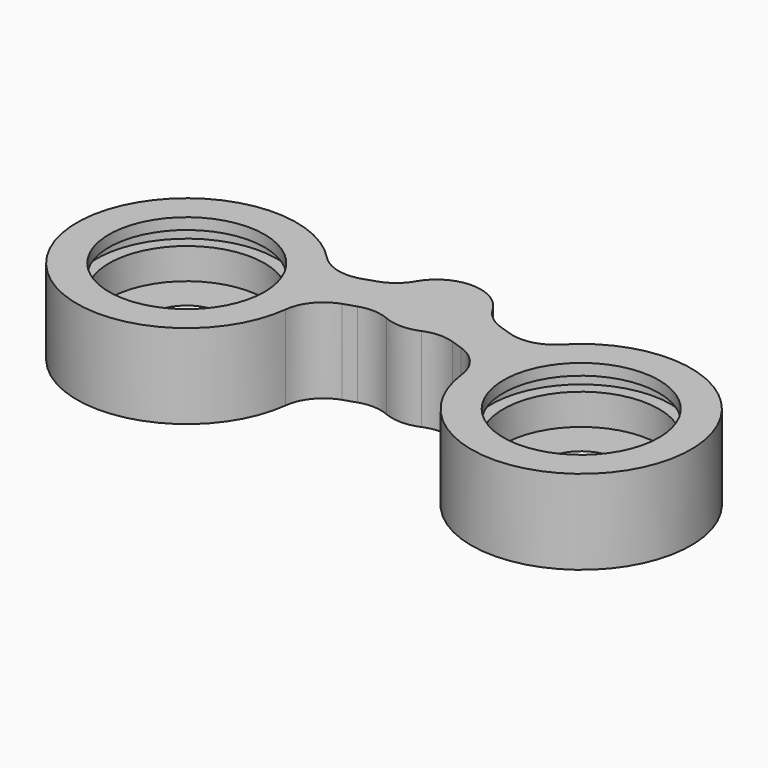
from build123d import *

# Parameters (mm, degrees)
PAD_DEPTH       = 19.05
SKETCH001_R     = 17.526
POCKET_DEPTH    = 12.7
SKETCH002_R     = 6.985
POCKET001_DEPTH = 6.351
CHAMFER_SIZE    = 1.27
SKETCH003_R     = 20.32
POCKET002_DEPTH = 3.175


with BuildPart() as part:
    # Sketch → Pad (new body)
    with BuildSketch(Plane.XY):
        with BuildLine():
            ThreePointArc((-26.517355, 2.297173), (-67.949508, -22.598065), (-19.859908, -17.720926))
            ThreePointArc((-13.408051, -9.812702), (-17.782581, -12.829737), (-19.859908, -17.720926))
            Line((-10.685782, -8.907353), (-13.408051, -9.812702))
            ThreePointArc((-3.932394, -9.188814), (-7.283282, -8.428887), (-10.685782, -8.907353))
            ThreePointArc((-3.932394, -9.188814), (0, -9.9949), (3.932394, -9.188814))
            ThreePointArc((10.685782, -8.907353), (7.283282, -8.428887), (3.932394, -9.188814))
            Line((10.685782, -8.907353), (13.408051, -9.812702))
            ThreePointArc((19.859908, -17.720926), (17.782581, -12.829737), (13.408051, -9.812702))
            ThreePointArc((19.859908, -17.720926), (67.949508, -22.598065), (26.517355, 2.297173))
            ThreePointArc((16.614313, -0.171878), (21.924443, -0.375685), (26.517355, 2.297173))
            Line((13.892044, 0.73347), (16.614313, -0.171878))
            ThreePointArc((8.652348, 5.003488), (10.880692, 2.388068), (13.892044, 0.73347))
            ThreePointArc((8.652348, 5.003488), (0, 9.9949), (-8.652348, 5.003488))
            ThreePointArc((-13.892044, 0.73347), (-10.880692, 2.388068), (-8.652348, 5.003488))
            Line((-13.892044, 0.73347), (-16.614313, -0.171878))
            ThreePointArc((-26.517355, 2.297173), (-21.924443, -0.375685), (-16.614313, -0.171878))
        make_face()
    extrude(amount=PAD_DEPTH)

    # Sketch001 (on Face18 of Pad) → Pocket (cut)
    with BuildSketch(Plane.XY.offset(19.05)):
        with Locations((-44.45, -14.7828)):
            Circle(SKETCH001_R)
        with Locations((44.45, -14.7828)):
            Circle(SKETCH001_R)
    extrude(amount=-POCKET_DEPTH, mode=Mode.SUBTRACT)

    # Sketch002 (on Face21 of Pocket) → Pocket001 (cut, through all)
    with BuildSketch(Plane.XY.offset(6.35)):
        with Locations((-44.45, -14.7828)):
            Circle(SKETCH002_R)
        with Locations((44.45, -14.7828)):
            Circle(SKETCH002_R)
    extrude(amount=-POCKET001_DEPTH, mode=Mode.SUBTRACT)

    # Chamfer
    chamfer_edges = [part.edges().sort_by_distance(p)[0] for p in [
        (-51.435, -14.7828, 6.35),
        (37.465, -14.7828, 6.35),
    ]]
    chamfer(chamfer_edges, length=CHAMFER_SIZE)

    # Sketch003 (on DatumPlane) → Pocket002 (cut)
    with BuildSketch(Plane.XY.offset(13.335)):
        with Locations((-44.45, -14.7828)):
            Circle(SKETCH003_R)
        with Locations((44.45, -14.7828)):
            Circle(SKETCH003_R)
    extrude(amount=POCKET002_DEPTH, mode=Mode.SUBTRACT)


solid = part.part
